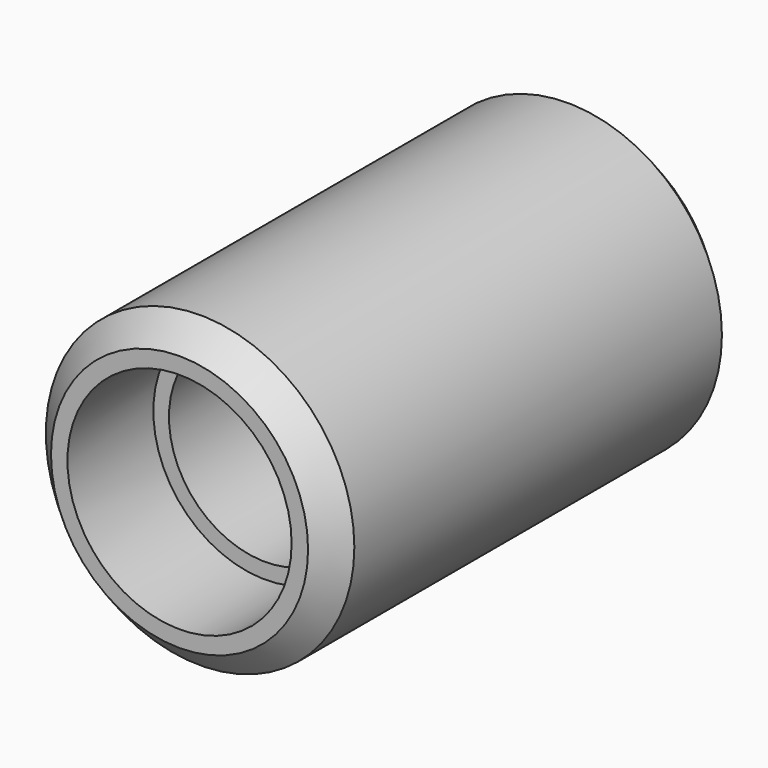
from build123d import *

# Parameters (mm, degrees)
F0_R           = 9.525
F1_DEPTH       = 31.5468
F3_D           = 9.8044
F3_CBORE_D     = 11.9126
F3_CBORE_DEPTH = 29.0068
F4_R           = 6.9215
F5_DEPTH       = 6.6294
F6_SIZE2       = 1.5875
F6_SIZE        = 1.5875


with BuildPart() as f1:
    # F0 (on Front) → F1 (new body)
    with BuildSketch(Plane.XZ):
        Circle(F0_R)
    extrude(amount=F1_DEPTH)

    # F3 (through all)
    with Locations(Plane.XZ.offset(31.5468)):
        with Locations((0, 0)):
            CounterBoreHole(F3_D / 2, F3_CBORE_D / 2, F3_CBORE_DEPTH)

    # F4 (on face) → F5 (cut)
    with BuildSketch(Plane.XZ.offset(31.5468)):
        Circle(F4_R)
    extrude(amount=-F5_DEPTH, mode=Mode.SUBTRACT)

    # F6
    f6_edges = [f1.edges().sort_by_distance(p)[0] for p in [
        (-9.525, -31.5468, 0),
        (-9.525, 0, 0),
    ]]
    chamfer(f6_edges, length=F6_SIZE, length2=F6_SIZE2)


solid = f1.part
